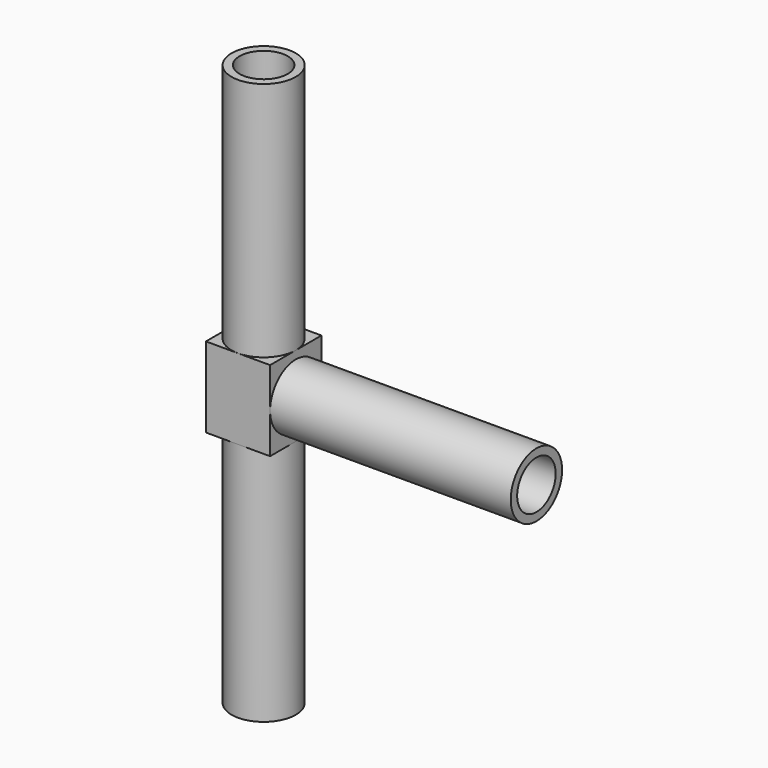
from build123d import *

# Parameters (mm, degrees)
F1_W      = 4
F1_H      = 4
F2_DEPTH  = 2.5
F3_R      = 2
F4_DEPTH  = 15
F5_R      = 2
F6_DEPTH  = 15
F7_R      = 2
F8_DEPTH  = 15
F9_R      = 1.5
F10_DEPTH = 35.001
F11_R     = 1.5
F12_DEPTH = 16


with BuildPart() as f2:
    # F1 (on Top) → F2 (new body, symmetric)
    with BuildSketch(Plane.XY):
        Rectangle(F1_W, F1_H)
    extrude(amount=F2_DEPTH, both=True)

    # F3 (on face) → F4 (join)
    with BuildSketch(Plane.XY.offset(2.5)):
        Circle(F3_R)
    extrude(amount=F4_DEPTH)

    # F5 (on face) → F6 (join)
    with BuildSketch(Plane(origin=(0, 0, -2.5), x_dir=(1, 0, 0), z_dir=(0, 0, -1))):
        Circle(F5_R)
    extrude(amount=F6_DEPTH)

    # F7 (on face) → F8 (join)
    with BuildSketch(Plane.YZ.offset(2)):
        Circle(F7_R)
    extrude(amount=F8_DEPTH)

    # F9 (on face) → F10 (cut, through all)
    with BuildSketch(Plane.XY.offset(17.5)):
        Circle(F9_R)
    extrude(amount=-F10_DEPTH, mode=Mode.SUBTRACT)

    # F11 (on face) → F12 (cut)
    with BuildSketch(Plane.YZ.offset(17)):
        Circle(F11_R)
    extrude(amount=-F12_DEPTH, mode=Mode.SUBTRACT)


solid = f2.part
